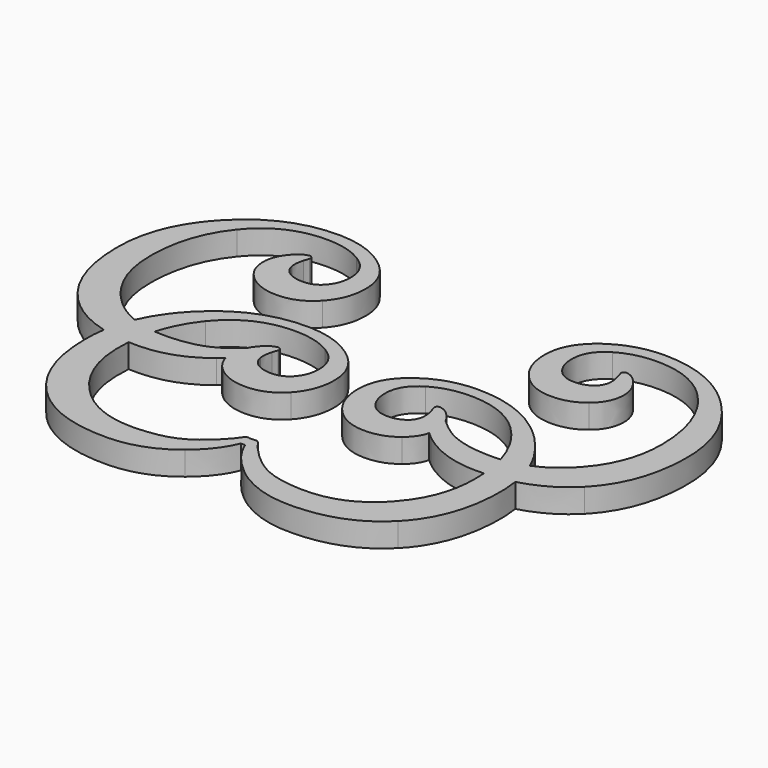
from build123d import *

# Parameters (mm, degrees)
F1_DEPTH = 2


with BuildPart() as f1:
    # F0 (on Top) → F1 (new body)
    with BuildSketch(Plane.XY):
        with BuildLine():
            add(Edge.make_bspline(
                [(-17.2726083369, -4.1712633243), (-18.8402364364, -3.7585210862), (-20.1685882104, -2.9949153043), (-21.2576636586, -1.8804459785)],
                knots=[0.370348675, 0.370348675, 0.370348675, 0.370348675, 1, 1, 1, 1], degree=3))
            add(Edge.make_bspline(
                [(-17.2726083369, -4.1712633243), (-17.1429098474, -3.3456464925), (-16.914484568, -2.5547119326), (-16.5873061537, -1.7984420813)],
                knots=[0.2061829969, 0.2061829969, 0.2061829969, 0.2061829969, 0.5200494323, 0.5200494323, 0.5200494323, 0.5200494323], degree=3))
            add(Edge.make_bspline(
                [(-19.3067678768, 0.1511099288), (-18.5036562151, -0.7388867382), (-17.5971987121, -1.3887076701), (-16.5873061537, -1.7984420813)],
                knots=[0, 0, 0, 0, 0.5395369831, 0.5395369831, 0.5395369831, 0.5395369831], degree=3))
            add(Edge.make_bspline(
                [(-21.4587459433, 5.9234211632), (-21.4587459433, 3.6709019544), (-20.7416092642, 1.7464195235), (-19.3067678768, 0.1511099288)],
                knots=[0, 0, 0, 0, 1, 1, 1, 1], degree=3))
            add(Edge.make_bspline(
                [(-19.357038448, 12.3898639002), (-20.7583661212, 10.6667477686), (-21.4587459433, 8.5113615278), (-21.4587459433, 5.9234211632)],
                knots=[0, 0, 0, 0, 1, 1, 1, 1], degree=3))
            add(Edge.make_bspline(
                [(-13.8559610862, 14.974680105), (-16.1221129923, 14.974680105), (-17.9559947893, 14.1129800319), (-19.357038448, 12.3898639002)],
                knots=[0, 0, 0, 0, 1, 1, 1, 1], degree=3))
            add(Edge.make_bspline(
                [(-10.73833363, 14.1700669517), (-11.6233228942, 14.7062863775), (-12.6628160608, 14.974680105), (-13.8559610862, 14.974680105)],
                knots=[0, 0, 0, 0, 1, 1, 1, 1], degree=3))
            add(Edge.make_bspline(
                [(-9.2699785285, 11.7562274918), (-9.2699785285, 12.7752716126), (-9.759619572, 13.5798847658), (-10.73833363, 14.1700669517)],
                knots=[0, 0, 0, 0, 1, 1, 1, 1], degree=3))
            add(Edge.make_bspline(
                [(-9.8533443657, 10.0064139947), (-9.4648124936, 10.4756059923), (-9.2699785285, 11.0589718295), (-9.2699785285, 11.7562274918)],
                knots=[0, 0, 0, 0, 1, 1, 1, 1], degree=3))
            add(Edge.make_bspline(
                [(-11.4020755782, 9.3026259983), (-10.7584986613, 9.3026259983), (-10.2424442669, 9.5372219971), (-9.8533443657, 10.0064139947)],
                knots=[0, 0, 0, 0, 1, 1, 1, 1], degree=3))
            add(Edge.make_bspline(
                [(-12.6392428551, 9.6343549651), (-12.2839406826, 9.4131076491), (-11.8718356048, 9.3026259983), (-11.4020755782, 9.3026259983)],
                knots=[0, 0, 0, 0, 1, 1, 1, 1], degree=3))
            add(Edge.make_bspline(
                [(-13.2927602804, 10.5897798319), (-13.2123841694, 10.1739825653), (-12.9945450277, 9.8558862957), (-12.6392428551, 9.6343549651)],
                knots=[0, 0, 0, 0, 1, 1, 1, 1], degree=3))
            add(Edge.make_bspline(
                [(-13.3129253118, 10.9317333217), (-13.3129253118, 10.784045768), (-13.3063929776, 10.6701559429), (-13.2927602804, 10.5897798319)],
                knots=[0, 0, 0, 0, 1, 1, 1, 1], degree=3))
            add(Edge.make_bspline(
                [(-13.192219138, 11.6556863495), (-13.272595249, 11.3875766366), (-13.3129253118, 11.1461642891), (-13.3129253118, 10.9317333217)],
                knots=[0, 0, 0, 0, 1, 1, 1, 1], degree=3))
            add(Edge.make_bspline(
                [(-13.0513479329, 12.118346013), (-13.1186593757, 11.9306124111), (-13.1655217726, 11.7763925232), (-13.192219138, 11.6556863495)],
                knots=[0, 0, 0, 0, 1, 1, 1, 1], degree=3))
            add(Edge.make_bspline(
                [(-13.1118430271, 12.4000884232), (-13.0314669161, 12.3194282977), (-13.0113018847, 12.2254194895), (-13.0513479329, 12.118346013)],
                knots=[0, 0, 0, 0, 1, 1, 1, 1], degree=3))
            add(Edge.make_bspline(
                [(-13.4537965168, 12.4404184859), (-13.3063929776, 12.4938132169), (-13.192219138, 12.4804645342), (-13.1118430271, 12.4000884232)],
                knots=[0, 0, 0, 0, 1, 1, 1, 1], degree=3))
            add(Edge.make_bspline(
                [(-14.5398680658, 11.5954752699), (-14.1913822419, 12.0646672675), (-13.8292637207, 12.3464096777), (-13.4537965168, 12.4404184859)],
                knots=[0, 0, 0, 0, 1, 1, 1, 1], degree=3))
            add(Edge.make_bspline(
                [(-15.1433989344, 9.9058728524), (-15.1433989344, 10.509403721), (-14.9420326352, 11.0726045268), (-14.5398680658, 11.5954752699)],
                knots=[0, 0, 0, 0, 1, 1, 1, 1], degree=3))
            add(Edge.make_bspline(
                [(-14.0169973227, 7.6130235808), (-14.7679317305, 8.2165544494), (-15.1433989344, 8.9808375399), (-15.1433989344, 9.9058728524)],
                knots=[0, 0, 0, 0, 1, 1, 1, 1], degree=3))
            add(Edge.make_bspline(
                [(-11.5227817519, 6.7683643793), (-12.4881471271, 6.7683643793), (-13.3197416604, 7.0498227749), (-14.0169973227, 7.6130235808)],
                knots=[0, 0, 0, 0, 1, 1, 1, 1], degree=3))
            add(Edge.make_bspline(
                [(-8.656791166, 8.0254126731), (-9.4278906052, 7.1872858057), (-10.383315472, 6.7683643793), (-11.5227817519, 6.7683643793)],
                knots=[0, 0, 0, 0, 1, 1, 1, 1], degree=3))
            add(Edge.make_bspline(
                [(-7.5, 11.112650575), (-7.5, 9.8925241696), (-7.8856917268, 8.863255526), (-8.656791166, 8.0254126731)],
                knots=[0, 0, 0, 0, 1, 1, 1, 1], degree=3))
            add(Edge.make_bspline(
                [(-9.4713448277, 14.6929376948), (-8.1572096141, 13.754269685), (-7.5, 12.5611246597), (-7.5, 11.112650575)],
                knots=[0, 0, 0, 0, 1, 1, 1, 1], degree=3))
            add(Edge.make_bspline(
                [(-13.6949248498, 15.9803755429), (-12.0859825577, 15.9803755429), (-10.6781225504, 15.550945579), (-9.4713448277, 14.6929376948)],
                knots=[0, 0, 0, 0, 1, 1, 1, 1], degree=3))
            add(Edge.make_bspline(
                [(-20.9057696604, 12.8726885951), (-18.9011951331, 14.9445745652), (-16.4978642108, 15.9803755429), (-13.6949248498, 15.9803755429)],
                knots=[0, 0, 0, 0, 1, 1, 1, 1], degree=3))
            add(Edge.make_bspline(
                [(-23.9126314514, 5.6016327048), (-23.9126314514, 8.3773066713), (-22.9106282023, 10.8010866396), (-20.9057696604, 12.8726885951)],
                knots=[0, 0, 0, 0, 1, 1, 1, 1], degree=3))
            add(Edge.make_bspline(
                [(-21.2576636586, -1.8804459785), (-23.0276421871, -0.0704214018), (-23.9126314514, 2.423794169), (-23.9126314514, 5.6016327048)],
                knots=[0, 0, 0, 0, 1, 1, 1, 1], degree=3))
        make_face()
        with BuildLine():
            add(Edge.make_bspline(
                [(-14.9099886164, -4.5204194534), (-15.7501212732, -4.4811536107), (-16.5376611801, -4.3647682343), (-17.2726083369, -4.1712633243)],
                knots=[0.0751508208, 0.0751508208, 0.0751508208, 0.0751508208, 0.370348675, 0.370348675, 0.370348675, 0.370348675], degree=3))
            add(Edge.make_bspline(
                [(-14.520810685, -2.2901710603), (-14.7214920316, -2.9898221882), (-14.8512088561, -3.7332352682), (-14.9099886164, -4.5204194529)],
                knots=[0.5499201806, 0.5499201806, 0.5499201806, 0.5499201806, 0.8681456705, 0.8681456705, 0.8681456705, 0.8681456705], degree=3))
            add(Edge.make_bspline(
                [(-16.5873061537, -1.7984420813), (-15.9408637096, -2.0607172233), (-15.2520396864, -2.2246190833), (-14.520810685, -2.2901710603)],
                knots=[0.5395369831, 0.5395369831, 0.5395369831, 0.5395369831, 0.8849000646, 0.8849000646, 0.8849000646, 0.8849000646], degree=3))
            add(Edge.make_bspline(
                [(-17.2726083369, -4.1712633243), (-17.1429098474, -3.3456464925), (-16.914484568, -2.5547119326), (-16.5873061537, -1.7984420813)],
                knots=[0.2061829969, 0.2061829969, 0.2061829969, 0.2061829969, 0.5200494323, 0.5200494323, 0.5200494323, 0.5200494323], degree=3))
        make_face()
        with BuildLine():
            add(Edge.make_bspline(
                [(-6.5397722818, 0.8710462365), (-6.5124893899, 0.8111742811), (-6.5122726475, 0.7452582853), (-6.5391220543, 0.6734694457)],
                knots=[0.3295366701, 0.3295366701, 0.3295366701, 0.3295366701, 1, 1, 1, 1], degree=3))
            add(Edge.make_bspline(
                [(-6.5397722818, 0.8710462365), (-6.5555229598, 0.7049295503), (-6.607489153, 0.511918105), (-6.6956708612, 0.2916971193)],
                knots=[0.1786161594, 0.1786161594, 0.1786161594, 0.1786161594, 1, 1, 1, 1], degree=3))
            add(Edge.make_bspline(
                [(-6.6956708612, 0.2916971193), (-7.0635899522, -0.6391795747), (-7.6778389669, -1.5017936544), (-8.5384179053, -2.2948923231)],
                knots=[0, 0, 0, 0, 0.8573285883, 0.8573285883, 0.8573285883, 0.8573285883], degree=3))
            add(Edge.make_bspline(
                [(-7.5044874295, -3.832137001), (-8.0404078958, -3.4015770801), (-8.3849482677, -2.8890590675), (-8.5384179053, -2.2948923231)],
                knots=[0, 0, 0, 0, 0.7134016557, 0.7134016557, 0.7134016557, 0.7134016557], degree=3))
            add(Edge.make_bspline(
                [(-5.0105558732, -4.6767962025), (-5.9759212485, -4.6767962025), (-6.8075157817, -4.3950537924), (-7.5044874295, -3.832137001)],
                knots=[0, 0, 0, 0, 1, 1, 1, 1], degree=3))
            add(Edge.make_bspline(
                [(-2.1442812728, -3.4197479087), (-2.9156647265, -4.2578747761), (-3.8710895933, -4.6767962025), (-5.0105558732, -4.6767962025)],
                knots=[0, 0, 0, 0, 1, 1, 1, 1], degree=3))
            add(Edge.make_bspline(
                [(-0.9877741214, -0.3325100068), (-0.9877741214, -1.5526364122), (-1.3734658482, -2.5819050558), (-2.1442812728, -3.4197479087)],
                knots=[0, 0, 0, 0, 1, 1, 1, 1], degree=3))
            add(Edge.make_bspline(
                [(-2.9588349345, 3.247777113), (-1.6449837354, 2.3091091032), (-0.9877741214, 1.1159640778), (-0.9877741214, -0.3325100068)],
                knots=[0, 0, 0, 0, 1, 1, 1, 1], degree=3))
            add(Edge.make_bspline(
                [(-7.1826989711, 4.5352149611), (-5.5737566791, 4.5352149611), (-4.1658966717, 4.1057849972), (-2.9588349345, 3.247777113)],
                knots=[0, 0, 0, 0, 1, 1, 1, 1], degree=3))
            add(Edge.make_bspline(
                [(-14.3935437818, 1.4278120278), (-12.3889692545, 3.4994139834), (-9.9853543176, 4.5352149611), (-7.1826989711, 4.5352149611)],
                knots=[0, 0, 0, 0, 1, 1, 1, 1], degree=3))
            add(Edge.make_bspline(
                [(-16.5873061537, -1.7984420813), (-16.0869995011, -0.6419879228), (-15.3557767771, 0.4334091803), (-14.3935437818, 1.4278120278)],
                knots=[0.5200494323, 0.5200494323, 0.5200494323, 0.5200494323, 1, 1, 1, 1], degree=3))
            add(Edge.make_bspline(
                [(-16.5873061537, -1.7984420813), (-15.9408637096, -2.0607172233), (-15.2520396864, -2.2246190833), (-14.520810685, -2.2901710603)],
                knots=[0.5395369831, 0.5395369831, 0.5395369831, 0.5395369831, 0.8849000646, 0.8849000646, 0.8849000646, 0.8849000646], degree=3))
            add(Edge.make_bspline(
                [(-12.8445285548, 0.944987333), (-13.6153031072, -0.0027451866), (-14.1740165849, -1.0811155736), (-14.520810685, -2.2901710603)],
                knots=[0, 0, 0, 0, 0.5499201806, 0.5499201806, 0.5499201806, 0.5499201806], degree=3))
            add(Edge.make_bspline(
                [(-7.3437352076, 3.5295195232), (-9.6098871137, 3.5295195232), (-11.4434848961, 2.6678194501), (-12.8445285548, 0.944987333)],
                knots=[0, 0, 0, 0, 1, 1, 1, 1], degree=3))
            add(Edge.make_bspline(
                [(-4.2261077513, 2.7249063699), (-5.1110970156, 3.2611257957), (-6.1505901822, 3.5295195232), (-7.3437352076, 3.5295195232)],
                knots=[0, 0, 0, 0, 1, 1, 1, 1], degree=3))
            add(Edge.make_bspline(
                [(-2.7577526499, 0.3113509246), (-2.7577526499, 1.3301110307), (-3.2473936934, 2.134724184), (-4.2261077513, 2.7249063699)],
                knots=[0, 0, 0, 0, 1, 1, 1, 1], degree=3))
            add(Edge.make_bspline(
                [(-3.3411184871, -1.4384625726), (-2.9523026004, -0.9695545895), (-2.7577526499, -0.3861887523), (-2.7577526499, 0.3113509246)],
                knots=[0, 0, 0, 0, 1, 1, 1, 1], degree=3))
            add(Edge.make_bspline(
                [(-4.8898496995, -2.1425345835), (-4.2462727827, -2.1425345835), (-3.7302183882, -1.9079385847), (-3.3411184871, -1.4384625726)],
                knots=[0, 0, 0, 0, 1, 1, 1, 1], degree=3))
            add(Edge.make_bspline(
                [(-6.126732962, -1.8108056167), (-5.771714804, -2.0317689182), (-5.3593257116, -2.1425345835), (-4.8898496995, -2.1425345835)],
                knots=[0, 0, 0, 0, 1, 1, 1, 1], degree=3))
            add(Edge.make_bspline(
                [(-6.7805344017, -0.8550967353), (-6.7001582908, -1.270894002), (-6.482319149, -1.5892742861), (-6.126732962, -1.8108056167)],
                knots=[0, 0, 0, 0, 1, 1, 1, 1], degree=3))
            add(Edge.make_bspline(
                [(-6.8006994331, -0.5131432456), (-6.8006994331, -0.6611148138), (-6.794167099, -0.7747206244), (-6.7805344017, -0.8550967353)],
                knots=[0, 0, 0, 0, 1, 1, 1, 1], degree=3))
            add(Edge.make_bspline(
                [(-6.6799932594, 0.2108097822), (-6.7603693704, -0.0575839452), (-6.8006994331, -0.2987122781), (-6.8006994331, -0.5131432456)],
                knots=[0, 0, 0, 0, 1, 1, 1, 1], degree=3))
            add(Edge.make_bspline(
                [(-6.5391220543, 0.6734694457), (-6.6064334971, 0.4854518292), (-6.6532958939, 0.3315159559), (-6.6799932594, 0.2108097822)],
                knots=[0, 0, 0, 0, 1, 1, 1, 1], degree=3))
        make_face()
        with BuildLine():
            add(Edge.make_bspline(
                [(-14.9099886164, -4.5204194529), (-14.9343435663, -4.8465832776), (-14.9465200647, -5.1802617109), (-14.9465200647, -5.521455404)],
                knots=[0.8681456705, 0.8681456705, 0.8681456705, 0.8681456705, 1, 1, 1, 1], degree=3))
            add(Edge.make_bspline(
                [(-14.9099886164, -4.5204194534), (-15.7501212732, -4.4811536107), (-16.5376611801, -4.3647682343), (-17.2726083369, -4.1712633243)],
                knots=[0.0751508208, 0.0751508208, 0.0751508208, 0.0751508208, 0.370348675, 0.370348675, 0.370348675, 0.370348675], degree=3))
            add(Edge.make_bspline(
                [(-17.4004055727, -5.8432438624), (-17.4004055727, -5.2709470857), (-17.3578089836, -4.7136218993), (-17.2726083369, -4.1712633243)],
                knots=[0, 0, 0, 0, 0.2061829969, 0.2061829969, 0.2061829969, 0.2061829969], degree=3))
            add(Edge.make_bspline(
                [(-14.74543778, -13.3256065604), (-16.5154163085, -11.5152979691), (-17.4004055727, -9.0210823983), (-17.4004055727, -5.8432438624)],
                knots=[0, 0, 0, 0, 1, 1, 1, 1], degree=3))
            add(Edge.make_bspline(
                [(-7.745899777, -15.9802903386), (-10.6826099799, -15.9802903386), (-13.0157893142, -15.0955850889), (-14.74543778, -13.3256065604)],
                knots=[0, 0, 0, 0, 1, 1, 1, 1], degree=3))
            add(Edge.make_bspline(
                [(-2.4762942542, -14.1302197136), (-3.991795767, -15.3634107873), (-5.7481415983, -15.9802903386), (-7.745899777, -15.9802903386)],
                knots=[0, 0, 0, 0, 1, 1, 1, 1], degree=3))
            add(Edge.make_bspline(
                [(-0.1831609681, -11.153179448), (-0.612590932, -12.2392509969), (-1.3768740225, -13.2318817666), (-2.4762942542, -14.1302197136)],
                knots=[0, 0, 0, 0, 1, 1, 1, 1], degree=3))
            add(Edge.make_bspline(
                [(-0.0224087461, -10.4695564829), (-0.0224087461, -10.6572900849), (-0.0760874916, -10.8853537496), (-0.1831609681, -11.153179448)],
                knots=[0, 0, 0, 0, 1, 1, 1, 1], degree=3))
            add(Edge.make_bspline(
                [(-0.193385491, -10.2179196125), (-0.0794956659, -10.2517173412), (-0.0224087461, -10.3355016265), (-0.0224087461, -10.4695564829)],
                knots=[0, 0, 0, 0, 1, 1, 1, 1], degree=3))
            add(Edge.make_bspline(
                [(-0.4649033783, -10.227860121), (-0.3981599646, -10.1878140727), (-0.3075593306, -10.1846899129), (-0.193385491, -10.2179196125)],
                knots=[0, 0, 0, 0, 1, 1, 1, 1], degree=3))
            add(Edge.make_bspline(
                [(-0.7463617739, -10.5297675625), (-0.6392882975, -10.3823640233), (-0.5452794892, -10.281822881), (-0.4649033783, -10.227860121)],
                knots=[0, 0, 0, 0, 1, 1, 1, 1], degree=3))
            add(Edge.make_bspline(
                [(-0.9877741214, -10.8717210523), (-0.9747094531, -10.8450236868), (-0.8940493276, -10.7308498472), (-0.7463617739, -10.5297675625)],
                knots=[0, 0, 0, 0, 1, 1, 1, 1], degree=3))
            add(Edge.make_bspline(
                [(-3.813718659, -13.1546298155), (-2.8954996952, -12.745932912), (-1.9534235111, -11.9847739812), (-0.9877741214, -10.8717210523)],
                knots=[0, 0, 0, 0, 1, 1, 1, 1], degree=3))
            add(Edge.make_bspline(
                [(-7.2633590966, -13.767817178), (-5.8821964547, -13.767817178), (-4.7325056519, -13.563894748), (-3.813718659, -13.1546298155)],
                knots=[0, 0, 0, 0, 1, 1, 1, 1], degree=3))
            add(Edge.make_bspline(
                [(-12.7945419982, -11.294050653), (-11.3060218653, -12.9433230078), (-9.4624835745, -13.767817178), (-7.2633590966, -13.767817178)],
                knots=[0, 0, 0, 0, 1, 1, 1, 1], degree=3))
            add(Edge.make_bspline(
                [(-14.9465200647, -5.521455404), (-14.9465200647, -7.7742586274), (-14.2293833855, -9.6984570437), (-12.7945419982, -11.294050653)],
                knots=[0, 0, 0, 0, 1, 1, 1, 1], degree=3))
        make_face()
        with BuildLine():
            add(Edge.make_bspline(
                [(-8.5384179053, -2.2948923231), (-8.6816302205, -2.4268749821), (-8.8316642963, -2.5569325095), (-8.9885201328, -2.6850591318)],
                knots=[0.8573285883, 0.8573285883, 0.8573285883, 0.8573285883, 1, 1, 1, 1], degree=3))
            add(Edge.make_bspline(
                [(-8.5384179053, -2.2948923231), (-8.6000720152, -2.0561948042), (-8.6308890412, -1.8043199204), (-8.6308890412, -1.5392877294)],
                knots=[0.7134016557, 0.7134016557, 0.7134016557, 0.7134016557, 1, 1, 1, 1], degree=3))
            add(Edge.make_bspline(
                [(-8.6308890412, -1.5392877294), (-8.6308890412, -1.0990899881), (-8.5239169576, -0.6803470998), (-8.3099727903, -0.2829488633)],
                knots=[0, 0, 0, 0, 0.7293707152, 0.7293707152, 0.7293707152, 0.7293707152], degree=3))
            add(Edge.make_bspline(
                [(-10.3262285522, -1.7094692337), (-9.666311765, -1.4158327906), (-8.994226511, -0.9402557782), (-8.3099727903, -0.2829488633)],
                knots=[0, 0, 0, 0, 0.7184699481, 0.7184699481, 0.7184699481, 0.7184699481], degree=3))
            add(Edge.make_bspline(
                [(-13.7755849753, -2.3229406107), (-12.3944223334, -2.3229406107), (-11.2447315305, -2.1187341662), (-10.3262285522, -1.7094692337)],
                knots=[0, 0, 0, 0, 1, 1, 1, 1], degree=3))
            add(Edge.make_bspline(
                [(-14.520810685, -2.2901710603), (-14.2771123417, -2.3120177159), (-14.0287040605, -2.3229406107), (-13.7755849753, -2.3229406107)],
                knots=[0.8849000646, 0.8849000646, 0.8849000646, 0.8849000646, 1, 1, 1, 1], degree=3))
            add(Edge.make_bspline(
                [(-14.520810685, -2.2901710603), (-14.7214920316, -2.9898221882), (-14.8512088561, -3.7332352682), (-14.9099886164, -4.5204194529)],
                knots=[0.5499201806, 0.5499201806, 0.5499201806, 0.5499201806, 0.8681456705, 0.8681456705, 0.8681456705, 0.8681456705], degree=3))
            add(Edge.make_bspline(
                [(-14.2581256556, -4.5354137713), (-14.4788218378, -4.5354137713), (-14.6961094914, -4.5304156653), (-14.9099886164, -4.5204194534)],
                knots=[0, 0, 0, 0, 0.0751508208, 0.0751508208, 0.0751508208, 0.0751508208], degree=3))
            add(Edge.make_bspline(
                [(-8.9885201328, -2.6850591318), (-10.5040216457, -3.9182502054), (-12.2606514915, -4.5354137713), (-14.2581256556, -4.5354137713)],
                knots=[0, 0, 0, 0, 1, 1, 1, 1], degree=3))
        make_face()
        with BuildLine():
            add(Edge.make_bspline(
                [(-6.5397722818, 0.8710462365), (-6.5555229598, 0.7049295503), (-6.607489153, 0.511918105), (-6.6956708612, 0.2916971193)],
                knots=[0.1786161594, 0.1786161594, 0.1786161594, 0.1786161594, 1, 1, 1, 1], degree=3))
            add(Edge.make_bspline(
                [(-6.5996171484, 0.9549278414), (-6.5731302725, 0.9284409654), (-6.5531819836, 0.9004736546), (-6.5397722818, 0.8710462365)],
                knots=[0, 0, 0, 0, 0.3295366701, 0.3295366701, 0.3295366701, 0.3295366701], degree=3))
            add(Edge.make_bspline(
                [(-6.9412866237, 0.9952579041), (-6.794167099, 1.0486526351), (-6.6799932594, 1.0353039523), (-6.5996171484, 0.9549278414)],
                knots=[0, 0, 0, 0, 1, 1, 1, 1], degree=3))
            add(Edge.make_bspline(
                [(-7.3169763646, 0.8360038179), (-7.1932984652, 0.9104464964), (-7.0680685515, 0.9635384649), (-6.9412866237, 0.9952579041)],
                knots=[0.6625907738, 0.6625907738, 0.6625907738, 0.6625907738, 1, 1, 1, 1], degree=3))
            add(Edge.make_bspline(
                [(-7.5, 0.5734395295), (-7.4887655291, 0.5963969265), (-7.4277576507, 0.684038752), (-7.3169763646, 0.8360038179)],
                knots=[0, 0, 0, 0, 0.8599124516, 0.8599124516, 0.8599124516, 0.8599124516], degree=3))
            add(Edge.make_bspline(
                [(-8.3099727903, -0.2829488633), (-8.0418502529, -0.0253853419), (-7.7718593228, 0.2600816807), (-7.5, 0.5734395295)],
                knots=[0.7184699481, 0.7184699481, 0.7184699481, 0.7184699481, 1, 1, 1, 1], degree=3))
            add(Edge.make_bspline(
                [(-8.6308890412, -1.5392877294), (-8.6308890412, -1.0990899881), (-8.5239169576, -0.6803470998), (-8.3099727903, -0.2829488633)],
                knots=[0, 0, 0, 0, 0.7293707152, 0.7293707152, 0.7293707152, 0.7293707152], degree=3))
            add(Edge.make_bspline(
                [(-8.5384179053, -2.2948923231), (-8.6000720152, -2.0561948042), (-8.6308890412, -1.8043199204), (-8.6308890412, -1.5392877294)],
                knots=[0.7134016557, 0.7134016557, 0.7134016557, 0.7134016557, 1, 1, 1, 1], degree=3))
            add(Edge.make_bspline(
                [(-6.6956708612, 0.2916971193), (-7.0635899522, -0.6391795747), (-7.6778389669, -1.5017936544), (-8.5384179053, -2.2948923231)],
                knots=[0, 0, 0, 0, 0.8573285883, 0.8573285883, 0.8573285883, 0.8573285883], degree=3))
        make_face()
        with BuildLine():
            add(Edge.make_bspline(
                [(-7.5, 0.5734395295), (-7.4887655291, 0.5963969265), (-7.4277576507, 0.684038752), (-7.3169763646, 0.8360038179)],
                knots=[0, 0, 0, 0, 0.8599124516, 0.8599124516, 0.8599124516, 0.8599124516], degree=3))
            add(Edge.make_bspline(
                [(-8.0276421871, 0.1505987026), (-7.7967386954, 0.461292806), (-7.5598500879, 0.6898162566), (-7.3169763646, 0.8360038179)],
                knots=[0, 0, 0, 0, 0.6625907738, 0.6625907738, 0.6625907738, 0.6625907738], degree=3))
            add(Edge.make_bspline(
                [(-8.3099727903, -0.2829488633), (-8.230589898, -0.1354962741), (-8.1364796969, 0.0090177047), (-8.0276421871, 0.1505987026)],
                knots=[0.7293707152, 0.7293707152, 0.7293707152, 0.7293707152, 1, 1, 1, 1], degree=3))
            add(Edge.make_bspline(
                [(-8.3099727903, -0.2829488633), (-8.0418502529, -0.0253853419), (-7.7718593228, 0.2600816807), (-7.5, 0.5734395295)],
                knots=[0.7184699481, 0.7184699481, 0.7184699481, 0.7184699481, 1, 1, 1, 1], degree=3))
        make_face()
        with BuildLine():
            add(Edge.make_bspline(
                [(0.1830189608, -11.1532646523), (0.0759454844, -10.8854389539), (0.0222667389, -10.6573752892), (0.0222667389, -10.4696416873)],
                knots=[0, 0, 0, 0, 1, 1, 1, 1], degree=3))
            add(Edge.make_bspline(
                [(2.4761522469, -14.1300209035), (1.3767320153, -13.2316829565), (0.6124489247, -12.2393362012), (0.1830189608, -11.1532646523)],
                knots=[0, 0, 0, 0, 1, 1, 1, 1], degree=3))
            add(Edge.make_bspline(
                [(7.7457577697, -15.9803755429), (5.7482836055, -15.9803755429), (3.9913697453, -15.3634959916), (2.4761522469, -14.1300209035)],
                knots=[0, 0, 0, 0, 1, 1, 1, 1], degree=3))
            add(Edge.make_bspline(
                [(14.7452957727, -13.3254077502), (13.0153632924, -15.0956702932), (10.6824679726, -15.9803755429), (7.7457577697, -15.9803755429)],
                knots=[0, 0, 0, 0, 1, 1, 1, 1], degree=3))
            add(Edge.make_bspline(
                [(17.4002635655, -5.8433290668), (17.4002635655, -9.0211676027), (16.5152743012, -11.5150991589), (14.7452957727, -13.3254077502)],
                knots=[0, 0, 0, 0, 1, 1, 1, 1], degree=3))
            add(Edge.make_bspline(
                [(17.2724723358, -4.171386762), (17.3576689782, -4.7137332959), (17.4002635655, -5.271045738), (17.4002635655, -5.8433290668)],
                knots=[0.7938218481, 0.7938218481, 0.7938218481, 0.7938218481, 1, 1, 1, 1], degree=3))
            add(Edge.make_bspline(
                [(17.2724723358, -4.171386762), (16.5375406068, -4.3649330476), (15.7500066489, -4.4813488932), (14.9098558486, -4.5206196855)],
                knots=[0.6296577506, 0.6296577506, 0.6296577506, 0.6296577506, 0.9248641942, 0.9248641942, 0.9248641942, 0.9248641942], degree=3))
            add(Edge.make_bspline(
                [(14.9463780574, -5.5215406084), (14.9463780574, -5.1803870246), (14.9342044217, -4.8467469338), (14.9098558486, -4.520619685)],
                knots=[0, 0, 0, 0, 0.1318388293, 0.1318388293, 0.1318388293, 0.1318388293], degree=3))
            add(Edge.make_bspline(
                [(12.7941159764, -11.2941358574), (14.2292413783, -9.6985422481), (14.9463780574, -7.7743438318), (14.9463780574, -5.5215406084)],
                knots=[0, 0, 0, 0, 1, 1, 1, 1], degree=3))
            add(Edge.make_bspline(
                [(7.2632170893, -13.7679023823), (9.4623415672, -13.7679023823), (11.3058798581, -12.9434082122), (12.7941159764, -11.2941358574)],
                knots=[0, 0, 0, 0, 1, 1, 1, 1], degree=3))
            add(Edge.make_bspline(
                [(3.8135766517, -13.1547150198), (4.7320796301, -13.5636959378), (5.8820544475, -13.7679023823), (7.2632170893, -13.7679023823)],
                knots=[0, 0, 0, 0, 1, 1, 1, 1], degree=3))
            add(Edge.make_bspline(
                [(0.9876321141, -10.8718062567), (1.9529974893, -11.9848591856), (2.8953576879, -12.7457341018), (3.8135766517, -13.1547150198)],
                knots=[0, 0, 0, 0, 1, 1, 1, 1], degree=3))
            add(Edge.make_bspline(
                [(0.7462197667, -10.5298527669), (0.8941913349, -10.7309350516), (0.9745674459, -10.8451088912), (0.9876321141, -10.8718062567)],
                knots=[0, 0, 0, 0, 1, 1, 1, 1], degree=3))
            add(Edge.make_bspline(
                [(0.464761371, -10.2279453253), (0.545137482, -10.2819080853), (0.6391462902, -10.3824492277), (0.7462197667, -10.5298527669)],
                knots=[0, 0, 0, 0, 1, 1, 1, 1], degree=3))
            add(Edge.make_bspline(
                [(0.1932434838, -10.2180048169), (0.3074173234, -10.1847751173), (0.3980179573, -10.1878992771), (0.464761371, -10.2279453253)],
                knots=[0, 0, 0, 0, 1, 1, 1, 1], degree=3))
            add(Edge.make_bspline(
                [(0.0222667389, -10.4696416873), (0.0222667389, -10.3355868308), (0.0793536587, -10.2518025455), (0.1932434838, -10.2180048169)],
                knots=[0, 0, 0, 0, 1, 1, 1, 1], degree=3))
        make_face()
        with BuildLine():
            add(Edge.make_bspline(
                [(17.2724723358, -4.171386762), (16.5375406068, -4.3649330476), (15.7500066489, -4.4813488932), (14.9098558486, -4.5206196855)],
                knots=[0.6296577506, 0.6296577506, 0.6296577506, 0.6296577506, 0.9248641942, 0.9248641942, 0.9248641942, 0.9248641942], degree=3))
            add(Edge.make_bspline(
                [(16.5871871497, -1.7985804579), (16.9143583178, -2.5548458839), (17.1427779318, -3.3457754643), (17.2724723358, -4.171386762)],
                knots=[0.4799579235, 0.4799579235, 0.4799579235, 0.4799579235, 0.7938218481, 0.7938218481, 0.7938218481, 0.7938218481], degree=3))
            add(Edge.make_bspline(
                [(14.5207264447, -2.2903673965), (15.251950906, -2.2248048356), (15.9407672413, -2.0608719563), (16.5871871497, -1.7985804579)],
                knots=[0.1150867412, 0.1150867412, 0.1150867412, 0.1150867412, 0.4604467617, 0.4604467617, 0.4604467617, 0.4604467617], degree=3))
            add(Edge.make_bspline(
                [(14.9098558486, -4.520619685), (14.8510848189, -3.7334345722), (14.7213811192, -2.9900201935), (14.5207264447, -2.2903673965)],
                knots=[0.1318388293, 0.1318388293, 0.1318388293, 0.1318388293, 0.4500629706, 0.4500629706, 0.4500629706, 0.4500629706], degree=3))
        make_face()
        with BuildLine():
            add(Edge.make_bspline(
                [(14.5207264447, -2.2903673965), (15.251950906, -2.2248048356), (15.9407672413, -2.0608719563), (16.5871871497, -1.7985804579)],
                knots=[0.1150867412, 0.1150867412, 0.1150867412, 0.1150867412, 0.4604467617, 0.4604467617, 0.4604467617, 0.4604467617], degree=3))
            add(Edge.make_bspline(
                [(14.3934017745, 1.4277268235), (15.3556495172, 0.4333087355), (16.0868799075, -0.6421060907), (16.5871871497, -1.7985804579)],
                knots=[0, 0, 0, 0, 0.4799579235, 0.4799579235, 0.4799579235, 0.4799579235], degree=3))
            add(Edge.make_bspline(
                [(7.1825569638, 4.5351297568), (9.9854963249, 4.5351297568), (12.3888272472, 3.499328779), (14.3934017745, 1.4277268235)],
                knots=[0, 0, 0, 0, 1, 1, 1, 1], degree=3))
            add(Edge.make_bspline(
                [(2.9586929273, 3.2479759231), (4.1654706499, 4.1059838074), (5.5736146718, 4.5351297568), (7.1825569638, 4.5351297568)],
                knots=[0, 0, 0, 0, 1, 1, 1, 1], degree=3))
            add(Edge.make_bspline(
                [(0.9876321141, -0.3323111966), (0.9876321141, 1.1158788735), (1.6448417282, 2.3090238989), (2.9586929273, 3.2479759231)],
                knots=[0, 0, 0, 0, 1, 1, 1, 1], degree=3))
            add(Edge.make_bspline(
                [(2.1441392656, -3.4195490985), (1.3733238409, -2.5817062457), (0.9876321141, -1.5527216165), (0.9876321141, -0.3323111966)],
                knots=[0, 0, 0, 0, 1, 1, 1, 1], degree=3))
            add(Edge.make_bspline(
                [(5.010413866, -4.6765973924), (3.8706635715, -4.6765973924), (2.9155227193, -4.2579599805), (2.1441392656, -3.4195490985)],
                knots=[0, 0, 0, 0, 1, 1, 1, 1], degree=3))
            add(Edge.make_bspline(
                [(7.5043454223, -3.8322222054), (6.8073737745, -4.3951389967), (5.9757792412, -4.6765973924), (5.010413866, -4.6765973924)],
                knots=[0, 0, 0, 0, 1, 1, 1, 1], degree=3))
            add(Edge.make_bspline(
                [(8.5382795672, -2.2948601995), (8.384811752, -2.8891361029), (8.0402701595, -3.4016588532), (7.5043454223, -3.8322222054)],
                knots=[0.2865926589, 0.2865926589, 0.2865926589, 0.2865926589, 1, 1, 1, 1], degree=3))
            add(Edge.make_bspline(
                [(8.5382795672, -2.2948601995), (7.6778529181, -1.5018056329), (7.0635553446, -0.6393528191), (6.6953868467, 0.2917823237)],
                knots=[0.142657642, 0.142657642, 0.142657642, 0.142657642, 1, 1, 1, 1], degree=3))
            add(Edge.make_bspline(
                [(6.6953868467, 0.2917823237), (6.6074414066, 0.5119958396), (6.5553258178, 0.7050016608), (6.5395122043, 0.8711145368)],
                knots=[0, 0, 0, 0, 0.8213559795, 0.8213559795, 0.8213559795, 0.8213559795], degree=3))
            add(Edge.make_bspline(
                [(6.538980047, 0.6733842414), (6.5119171079, 0.745234439), (6.5120944936, 0.8112017495), (6.5395122043, 0.8711145368)],
                knots=[0, 0, 0, 0, 0.671036376, 0.671036376, 0.671036376, 0.671036376], degree=3))
            add(Edge.make_bspline(
                [(6.6798512521, 0.2107245779), (6.6531538866, 0.3314307516), (6.6062914898, 0.4856506394), (6.538980047, 0.6733842414)],
                knots=[0, 0, 0, 0, 1, 1, 1, 1], degree=3))
            add(Edge.make_bspline(
                [(6.8005574258, -0.5132284499), (6.8005574258, -0.2987974825), (6.7602273631, -0.0576691496), (6.6798512521, 0.2107245779)],
                knots=[0, 0, 0, 0, 1, 1, 1, 1], degree=3))
            add(Edge.make_bspline(
                [(6.7803923945, -0.8551819397), (6.7940250917, -0.7748058287), (6.8005574258, -0.6612000182), (6.8005574258, -0.5132284499)],
                knots=[0, 0, 0, 0, 1, 1, 1, 1], degree=3))
            add(Edge.make_bspline(
                [(6.1268749692, -1.8106068065), (6.4821771418, -1.5893594904), (6.7000162835, -1.2709792063), (6.7803923945, -0.8551819397)],
                knots=[0, 0, 0, 0, 1, 1, 1, 1], degree=3))
            add(Edge.make_bspline(
                [(4.8897076922, -2.1423357733), (5.3591837044, -2.1423357733), (5.7715727967, -2.0318541226), (6.1268749692, -1.8106068065)],
                knots=[0, 0, 0, 0, 1, 1, 1, 1], degree=3))
            add(Edge.make_bspline(
                [(3.3409764798, -1.4385477769), (3.730076381, -1.9080237891), (4.2461307754, -2.1423357733), (4.8897076922, -2.1423357733)],
                knots=[0, 0, 0, 0, 1, 1, 1, 1], degree=3))
            add(Edge.make_bspline(
                [(2.7576106426, 0.3112657202), (2.7576106426, -0.3862739566), (2.9524446077, -0.9696397938), (3.3409764798, -1.4385477769)],
                knots=[0, 0, 0, 0, 1, 1, 1, 1], degree=3))
            add(Edge.make_bspline(
                [(4.2259657441, 2.7248211655), (3.2472516861, 2.1349229942), (2.7576106426, 1.3303098409), (2.7576106426, 0.3112657202)],
                knots=[0, 0, 0, 0, 1, 1, 1, 1], degree=3))
            add(Edge.make_bspline(
                [(7.3435932003, 3.5294343188), (6.1504481749, 3.5294343188), (5.1109550083, 3.2610405914), (4.2259657441, 2.7248211655)],
                knots=[0, 0, 0, 0, 1, 1, 1, 1], degree=3))
            add(Edge.make_bspline(
                [(12.8446705621, 0.9449021286), (11.4433428888, 2.6677342457), (9.6097451064, 3.5294343188), (7.3435932003, 3.5294343188)],
                knots=[0, 0, 0, 0, 1, 1, 1, 1], degree=3))
            add(Edge.make_bspline(
                [(14.5207264447, -2.2903673965), (14.173966343, -1.0812668577), (13.6153125399, -0.0028594282), (12.8446705621, 0.9449021286)],
                knots=[0.4500629706, 0.4500629706, 0.4500629706, 0.4500629706, 1, 1, 1, 1], degree=3))
        make_face()
        with BuildLine():
            add(Edge.make_bspline(
                [(14.9098558486, -4.5206196855), (14.6960210604, -4.5306148692), (14.4787777431, -4.5356125815), (14.2581256556, -4.5356125815)],
                knots=[0.9248641942, 0.9248641942, 0.9248641942, 0.9248641942, 1, 1, 1, 1], degree=3))
            add(Edge.make_bspline(
                [(14.9098558486, -4.520619685), (14.8510848189, -3.7334345722), (14.7213811192, -2.9900201935), (14.5207264447, -2.2903673965)],
                knots=[0.1318388293, 0.1318388293, 0.1318388293, 0.1318388293, 0.4500629706, 0.4500629706, 0.4500629706, 0.4500629706], degree=3))
            add(Edge.make_bspline(
                [(13.7755849753, -2.3231394208), (14.0286750449, -2.3231394208), (14.2770553904, -2.3122152684), (14.5207264447, -2.2903673965)],
                knots=[0, 0, 0, 0, 0.1150867412, 0.1150867412, 0.1150867412, 0.1150867412], degree=3))
            add(Edge.make_bspline(
                [(10.3259445376, -1.7093840293), (11.244447516, -2.1186489618), (12.3944223334, -2.3231394208), (13.7755849753, -2.3231394208)],
                knots=[0, 0, 0, 0, 1, 1, 1, 1], degree=3))
            add(Edge.make_bspline(
                [(8.3096850037, -0.2827122294), (8.9939541578, -0.9400975324), (9.6661811461, -1.4157250375), (10.3259445376, -1.7093840293)],
                knots=[0.2814748797, 0.2814748797, 0.2814748797, 0.2814748797, 1, 1, 1, 1], degree=3))
            add(Edge.make_bspline(
                [(8.3096850037, -0.2827122294), (8.5237263572, -0.6801092534), (8.6307470339, -1.0987912072), (8.6307470339, -1.5390889193)],
                knots=[0.2704636416, 0.2704636416, 0.2704636416, 0.2704636416, 1, 1, 1, 1], degree=3))
            add(Edge.make_bspline(
                [(8.6307470339, -1.5390889193), (8.6307470339, -1.8041972491), (8.5999312306, -2.0561254662), (8.5382795672, -2.2948601995)],
                knots=[0, 0, 0, 0, 0.2865926589, 0.2865926589, 0.2865926589, 0.2865926589], degree=3))
            add(Edge.make_bspline(
                [(8.9882361183, -2.6849739275), (8.8314359374, -2.5568596711), (8.6814504204, -2.4268206624), (8.5382795672, -2.2948601995)],
                knots=[0, 0, 0, 0, 0.142657642, 0.142657642, 0.142657642, 0.142657642], degree=3))
            add(Edge.make_bspline(
                [(14.2581256556, -4.5356125815), (12.2603674769, -4.5356125815), (10.5037376312, -3.9184490156), (8.9882361183, -2.6849739275)],
                knots=[0, 0, 0, 0, 1, 1, 1, 1], degree=3))
        make_face()
        with BuildLine():
            add(Edge.make_bspline(
                [(8.5382795672, -2.2948601995), (7.6778529181, -1.5018056329), (7.0635553446, -0.6393528191), (6.6953868467, 0.2917823237)],
                knots=[0.142657642, 0.142657642, 0.142657642, 0.142657642, 1, 1, 1, 1], degree=3))
            add(Edge.make_bspline(
                [(8.6307470339, -1.5390889193), (8.6307470339, -1.8041972491), (8.5999312306, -2.0561254662), (8.5382795672, -2.2948601995)],
                knots=[0, 0, 0, 0, 0.2865926589, 0.2865926589, 0.2865926589, 0.2865926589], degree=3))
            add(Edge.make_bspline(
                [(8.3096850037, -0.2827122294), (8.5237263572, -0.6801092534), (8.6307470339, -1.0987912072), (8.6307470339, -1.5390889193)],
                knots=[0.2704636416, 0.2704636416, 0.2704636416, 0.2704636416, 1, 1, 1, 1], degree=3))
            add(Edge.make_bspline(
                [(7.5, 0.5735247339), (7.7717261028, 0.2602282947), (8.041629549, -0.0251882489), (8.3096850037, -0.2827122294)],
                knots=[0, 0, 0, 0, 0.2814748797, 0.2814748797, 0.2814748797, 0.2814748797], degree=3))
            add(Edge.make_bspline(
                [(7.3163383621, 0.8362923956), (7.4273488996, 0.6840325295), (7.4885090547, 0.5962621363), (7.5, 0.5735247339)],
                knots=[0.1391700927, 0.1391700927, 0.1391700927, 0.1391700927, 1, 1, 1, 1], degree=3))
            add(Edge.make_bspline(
                [(6.9414286309, 0.9951726998), (7.0679390102, 0.9634972568), (7.1929016777, 0.9105407769), (7.3163383621, 0.8362923956)],
                knots=[0, 0, 0, 0, 0.3369412241, 0.3369412241, 0.3369412241, 0.3369412241], degree=3))
            add(Edge.make_bspline(
                [(6.5994751412, 0.954842637), (6.6798512521, 1.0355027625), (6.7940250917, 1.0485674307), (6.9414286309, 0.9951726998)],
                knots=[0, 0, 0, 0, 1, 1, 1, 1], degree=3))
            add(Edge.make_bspline(
                [(6.5395122043, 0.8711145368), (6.5529532484, 0.900485713), (6.572940894, 0.9284018203), (6.5994751412, 0.954842637)],
                knots=[0.671036376, 0.671036376, 0.671036376, 0.671036376, 1, 1, 1, 1], degree=3))
            add(Edge.make_bspline(
                [(6.6953868467, 0.2917823237), (6.6074414066, 0.5119958396), (6.5553258178, 0.7050016608), (6.5395122043, 0.8711145368)],
                knots=[0, 0, 0, 0, 0.8213559795, 0.8213559795, 0.8213559795, 0.8213559795], degree=3))
        make_face()
        with BuildLine():
            add(Edge.make_bspline(
                [(7.5, 0.5735247339), (7.7717261028, 0.2602282947), (8.041629549, -0.0251882489), (8.3096850037, -0.2827122294)],
                knots=[0, 0, 0, 0, 0.2814748797, 0.2814748797, 0.2814748797, 0.2814748797], degree=3))
            add(Edge.make_bspline(
                [(8.0275001799, 0.1505134983), (8.1362710738, 0.0090191574), (8.2303326818, -0.1353837994), (8.3096850037, -0.2827122294)],
                knots=[0, 0, 0, 0, 0.2704636416, 0.2704636416, 0.2704636416, 0.2704636416], degree=3))
            add(Edge.make_bspline(
                [(7.3163383621, 0.8362923956), (7.5592465342, 0.6901807378), (7.7962452777, 0.4616153699), (8.0275001799, 0.1505134983)],
                knots=[0.3369412241, 0.3369412241, 0.3369412241, 0.3369412241, 1, 1, 1, 1], degree=3))
            add(Edge.make_bspline(
                [(7.3163383621, 0.8362923956), (7.4273488996, 0.6840325295), (7.4885090547, 0.5962621363), (7.5, 0.5735247339)],
                knots=[0.1391700927, 0.1391700927, 0.1391700927, 0.1391700927, 1, 1, 1, 1], degree=3))
        make_face()
        with BuildLine():
            add(Edge.make_bspline(
                [(16.5871871497, -1.7985804579), (16.9143583178, -2.5548458839), (17.1427779318, -3.3457754643), (17.2724723358, -4.171386762)],
                knots=[0.4799579235, 0.4799579235, 0.4799579235, 0.4799579235, 0.7938218481, 0.7938218481, 0.7938218481, 0.7938218481], degree=3))
            add(Edge.make_bspline(
                [(21.2573796441, -1.8803607742), (20.1682930819, -2.994841473), (18.8400379133, -3.7585640698), (17.2724723358, -4.171386762)],
                knots=[0, 0, 0, 0, 0.6296577506, 0.6296577506, 0.6296577506, 0.6296577506], degree=3))
            add(Edge.make_bspline(
                [(23.9126314514, 5.6017179092), (23.9126314514, 2.4238793734), (23.0276421871, -0.0703361975), (21.2573796441, -1.8803607742)],
                knots=[0, 0, 0, 0, 1, 1, 1, 1], degree=3))
            add(Edge.make_bspline(
                [(20.9054856459, 12.8727737995), (22.9103441877, 10.8008878294), (23.9126314514, 8.3773918757), (23.9126314514, 5.6017179092)],
                knots=[0, 0, 0, 0, 1, 1, 1, 1], degree=3))
            add(Edge.make_bspline(
                [(13.6949248498, 15.9801767328), (16.4975801962, 15.9801767328), (18.9009111186, 14.944375755), (20.9054856459, 12.8727737995)],
                knots=[0, 0, 0, 0, 1, 1, 1, 1], degree=3))
            add(Edge.make_bspline(
                [(9.4710608132, 14.6930228991), (10.6778385358, 15.5510307834), (12.0856985432, 15.9801767328), (13.6949248498, 15.9801767328)],
                knots=[0, 0, 0, 0, 1, 1, 1, 1], degree=3))
            add(Edge.make_bspline(
                [(7.5, 11.1127357794), (7.5, 12.5609258495), (8.1572096141, 13.7540708749), (9.4710608132, 14.6930228991)],
                knots=[0, 0, 0, 0, 1, 1, 1, 1], degree=3))
            add(Edge.make_bspline(
                [(8.6565071515, 8.0254978775), (7.8856917268, 8.8633407303), (7.5, 9.8923253595), (7.5, 11.1127357794)],
                knots=[0, 0, 0, 0, 1, 1, 1, 1], degree=3))
            add(Edge.make_bspline(
                [(11.5227817519, 6.7684495836), (10.3830314574, 6.7684495836), (9.4276065907, 7.1870869955), (8.6565071515, 8.0254978775)],
                knots=[0, 0, 0, 0, 1, 1, 1, 1], degree=3))
            add(Edge.make_bspline(
                [(14.0167133082, 7.6131087851), (13.3197416604, 7.0499079793), (12.4881471271, 6.7684495836), (11.5227817519, 6.7684495836)],
                knots=[0, 0, 0, 0, 1, 1, 1, 1], degree=3))
            add(Edge.make_bspline(
                [(15.1431149199, 9.9059580567), (15.1431149199, 8.9806387297), (14.7679317305, 8.2163556392), (14.0167133082, 7.6131087851)],
                knots=[0, 0, 0, 0, 1, 1, 1, 1], degree=3))
            add(Edge.make_bspline(
                [(14.5395840513, 11.5955604743), (14.9420326352, 11.0726897312), (15.1431149199, 10.5094889253), (15.1431149199, 9.9059580567)],
                knots=[0, 0, 0, 0, 1, 1, 1, 1], degree=3))
            add(Edge.make_bspline(
                [(13.4535125023, 12.4402196758), (13.8292637207, 12.3462108675), (14.1910982274, 12.0647524719), (14.5395840513, 11.5955604743)],
                knots=[0, 0, 0, 0, 1, 1, 1, 1], degree=3))
            add(Edge.make_bspline(
                [(13.1118430271, 12.4001736275), (13.192219138, 12.4805497385), (13.3061089631, 12.4936144067), (13.4535125023, 12.4402196758)],
                knots=[0, 0, 0, 0, 1, 1, 1, 1], degree=3))
            add(Edge.make_bspline(
                [(13.0513479329, 12.1184312174), (13.0110178702, 12.2255046938), (13.0311829016, 12.3195135021), (13.1118430271, 12.4001736275)],
                knots=[0, 0, 0, 0, 1, 1, 1, 1], degree=3))
            add(Edge.make_bspline(
                [(13.192219138, 11.6557715539), (13.1655217726, 11.7764777276), (13.1183753612, 11.9306976154), (13.0513479329, 12.1184312174)],
                knots=[0, 0, 0, 0, 1, 1, 1, 1], degree=3))
            add(Edge.make_bspline(
                [(13.3129253118, 10.9318185261), (13.3129253118, 11.1462494935), (13.272595249, 11.3873778264), (13.192219138, 11.6557715539)],
                knots=[0, 0, 0, 0, 1, 1, 1, 1], degree=3))
            add(Edge.make_bspline(
                [(13.2924762659, 10.5898650363), (13.3061089631, 10.6702411473), (13.3129253118, 10.7841309724), (13.3129253118, 10.9318185261)],
                knots=[0, 0, 0, 0, 1, 1, 1, 1], degree=3))
            add(Edge.make_bspline(
                [(12.6389588406, 9.6344401695), (12.9945450277, 9.8556874856), (13.2121001549, 10.1740677697), (13.2924762659, 10.5898650363)],
                knots=[0, 0, 0, 0, 1, 1, 1, 1], degree=3))
            add(Edge.make_bspline(
                [(11.4020755782, 9.3027112027), (11.8712675758, 9.3027112027), (12.2839406826, 9.4131928534), (12.6389588406, 9.6344401695)],
                knots=[0, 0, 0, 0, 1, 1, 1, 1], degree=3))
            add(Edge.make_bspline(
                [(9.8533443657, 10.0064991991), (10.2421602524, 9.5370231869), (10.7584986613, 9.3027112027), (11.4020755782, 9.3027112027)],
                knots=[0, 0, 0, 0, 1, 1, 1, 1], degree=3))
            add(Edge.make_bspline(
                [(9.2699785285, 11.7563126962), (9.2699785285, 11.0590570339), (9.4645284791, 10.4756911967), (9.8533443657, 10.0064991991)],
                knots=[0, 0, 0, 0, 1, 1, 1, 1], degree=3))
            add(Edge.make_bspline(
                [(10.7380496154, 14.170152156), (9.759619572, 13.5799699702), (9.2699785285, 12.7753568169), (9.2699785285, 11.7563126962)],
                knots=[0, 0, 0, 0, 1, 1, 1, 1], degree=3))
            add(Edge.make_bspline(
                [(13.8559610862, 14.9744812948), (12.6628160608, 14.9744812948), (11.6230388797, 14.7060875674), (10.7380496154, 14.170152156)],
                knots=[0, 0, 0, 0, 1, 1, 1, 1], degree=3))
            add(Edge.make_bspline(
                [(19.3567544335, 12.3899491046), (17.9557107748, 14.1130652362), (16.1221129923, 14.9744812948), (13.8559610862, 14.9744812948)],
                knots=[0, 0, 0, 0, 1, 1, 1, 1], degree=3))
            add(Edge.make_bspline(
                [(21.4584619288, 5.9235063676), (21.4584619288, 8.5111627176), (20.7583661212, 10.666832973), (19.3567544335, 12.3899491046)],
                knots=[0, 0, 0, 0, 1, 1, 1, 1], degree=3))
            add(Edge.make_bspline(
                [(19.3064838623, 0.1509111186), (20.7416092642, 1.7465047279), (21.4584619288, 3.6707031442), (21.4584619288, 5.9235063676)],
                knots=[0, 0, 0, 0, 1, 1, 1, 1], degree=3))
            add(Edge.make_bspline(
                [(16.5871871497, -1.7985804579), (17.5970838782, -1.3888045171), (18.5035012453, -0.7389591212), (19.3064838623, 0.1509111186)],
                knots=[0.4604467617, 0.4604467617, 0.4604467617, 0.4604467617, 1, 1, 1, 1], degree=3))
        make_face()
        with BuildLine():
            add(Edge.make_bspline(
                [(-0.0224087461, -10.4695564829), (-0.0224087461, -10.6572900849), (-0.0760874916, -10.8853537496), (-0.1831609681, -11.153179448)],
                knots=[0, 0, 0, 0, 1, 1, 1, 1], degree=3))
            Line((-0.1831609681, -11.153179448), (0.1830189608, -11.1532646523))
            add(Edge.make_bspline(
                [(0.1830189608, -11.1532646523), (0.0759454844, -10.8854389539), (0.0222667389, -10.6573752892), (0.0222667389, -10.4696416873)],
                knots=[0, 0, 0, 0, 1, 1, 1, 1], degree=3))
            add(Edge.make_bspline(
                [(0.0222667389, -10.4696416873), (0.0222667389, -10.3355868308), (0.0793536587, -10.2518025455), (0.1932434838, -10.2180048169)],
                knots=[0, 0, 0, 0, 1, 1, 1, 1], degree=3))
            Line((0.1932434838, -10.2180048169), (-0.193385491, -10.2179196125))
            add(Edge.make_bspline(
                [(-0.193385491, -10.2179196125), (-0.0794956659, -10.2517173412), (-0.0224087461, -10.3355016265), (-0.0224087461, -10.4695564829)],
                knots=[0, 0, 0, 0, 1, 1, 1, 1], degree=3))
        make_face()
    extrude(amount=F1_DEPTH)


solid = f1.part
